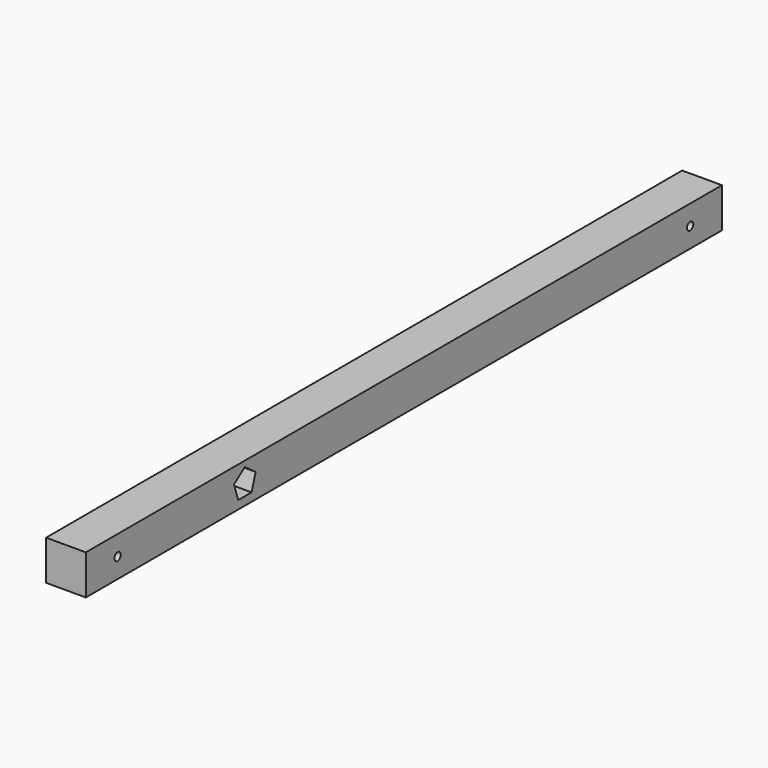
from build123d import *

# Parameters (mm, degrees)
F0_W     = 6.35
F0_H     = 127
F1_DEPTH = 6.35
F2_R     = 0.635
F3_DEPTH = 6.351


with BuildPart() as f1:
    # F0 (on Top) → F1 (new body)
    with BuildSketch(Plane.XY):
        with Locations((3.175, 63.5)):
            Rectangle(F0_W, F0_H)
    extrude(amount=F1_DEPTH)

    # F2 (on face) → F3 (cut, through all)
    with BuildSketch(Plane.YZ.offset(6.35)):
        with BuildLine():
            ThreePointArc((6.985, 3.175), (6.35, 3.81), (5.715, 3.175))
            ThreePointArc((5.715, 3.175), (6.35, 2.54), (6.985, 3.175))
        make_face()
        Polygon((33.085357, 1.337039), (33.910653, 3.877039), (31.75, 5.446845), (29.589347, 3.877039), (30.414643, 1.337039), align=None)
        with Locations((120.65, 3.175)):
            Circle(F2_R)
    extrude(amount=-F3_DEPTH, mode=Mode.SUBTRACT)


solid = f1.part
